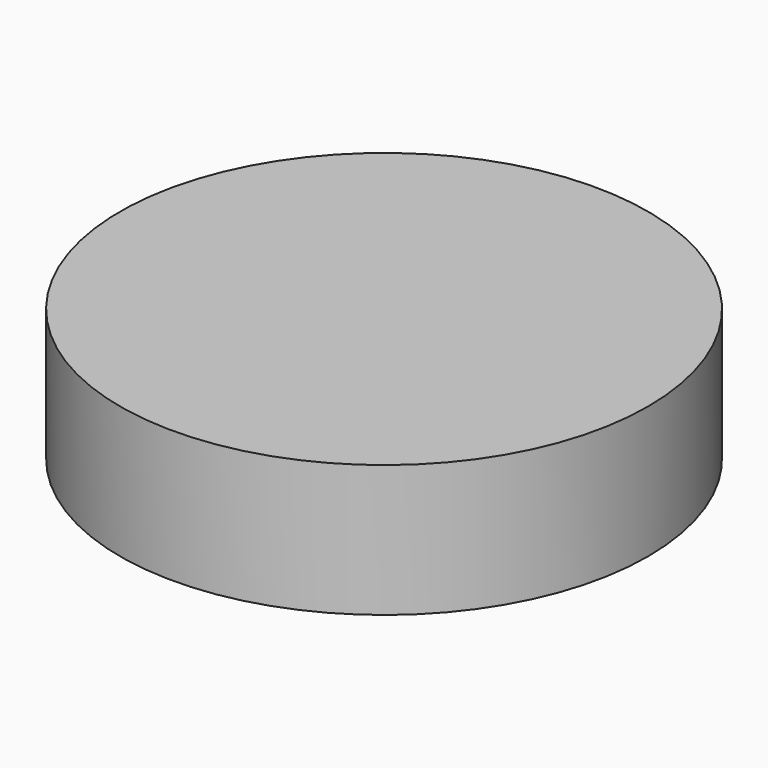
from build123d import *

# Parameters (mm, degrees)
SKETCH_R  = 20
PAD_DEPTH = 10


with BuildPart() as part:
    # Sketch → Pad (new body)
    with BuildSketch(Plane.XY):
        Circle(SKETCH_R)
    extrude(amount=PAD_DEPTH)


solid = part.part
